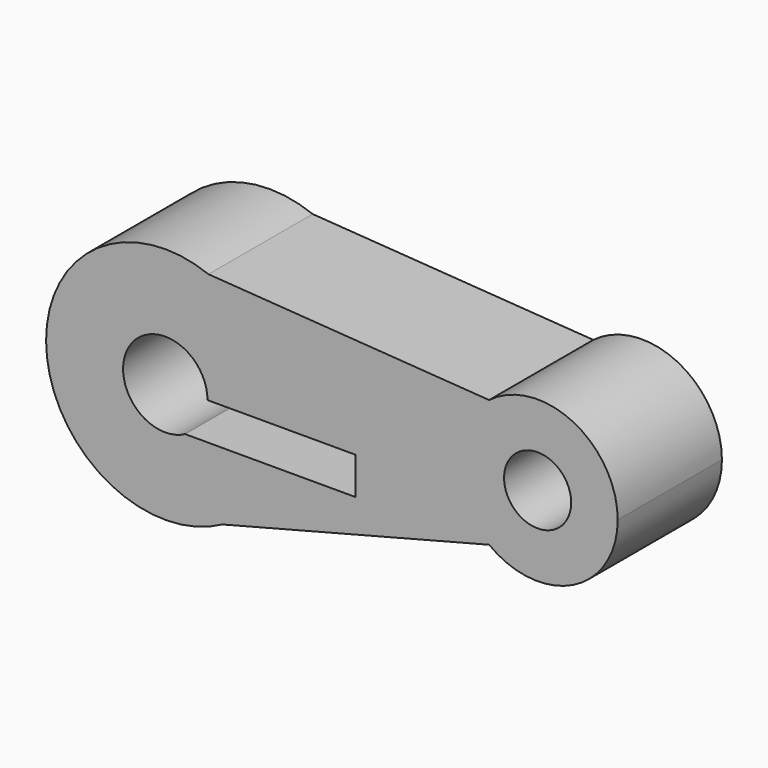
from build123d import *

# Parameters (mm, degrees)
F0_R     = 10.535173
F1_DEPTH = 40.894


with BuildPart() as f1:
    # F0 (on Front) → F1 (new body)
    with BuildSketch(Plane.XZ):
        with BuildLine():
            Line((-35.451322, 27.514845), (-11.27987, 27.514845))
            ThreePointArc((-11.27987, 27.514845), (-17.816037, 48.643776), (-35.141124, 62.391305))
            ThreePointArc((-35.141124, 62.391305), (-86.04097, 25.118193), (-30.793919, -5.342315))
            ThreePointArc((-30.793919, -5.342315), (-19.953258, 3.559245), (-13.152019, 15.827123))
            Line((-13.152019, 15.827123), (-42.462349, 15.827123))
            ThreePointArc((-42.462349, 15.827123), (-60.059173, 34.329486), (-35.451322, 27.514845))
        make_face()
        with BuildLine():
            ThreePointArc((-35.141124, 62.391305), (-17.816037, 48.643776), (-11.27987, 27.514845))
            Line((-11.27987, 27.514845), (11.076483, 27.514845))
            Line((11.076483, 27.514845), (11.076483, 15.827123))
            Line((11.076483, 15.827123), (-13.152019, 15.827123))
            ThreePointArc((-13.152019, 15.827123), (-19.953258, 3.559245), (-30.793919, -5.342315))
            Line((-30.793919, -5.342315), (52.946884, 16.285895))
            ThreePointArc((52.946884, 16.285895), (43.042984, 36.280636), (52.946884, 56.275376))
            Line((52.946884, 56.275376), (-35.141124, 62.391305))
        make_face()
        with BuildLine():
            ThreePointArc((93.313772, 36.280636), (79.334956, 58.804375), (52.946884, 56.275376))
            ThreePointArc((52.946884, 56.275376), (43.042984, 36.280636), (52.946884, 16.285895))
            ThreePointArc((52.946884, 16.285895), (79.334956, 13.756897), (93.313772, 36.280636))
        make_face()
        with Locations((68.178378, 36.280636)):
            Circle(F0_R, mode=Mode.SUBTRACT)
    extrude(amount=F1_DEPTH)


solid = f1.part
